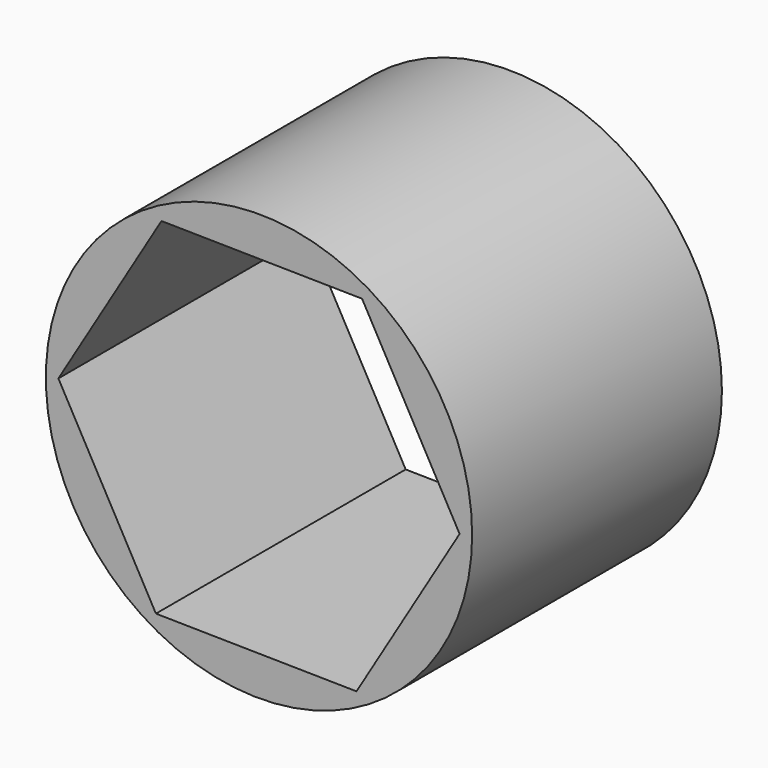
from build123d import *

# Parameters (mm, degrees)
F0_R     = 69.360533
F1_DEPTH = 101.6


with BuildPart() as f1:
    # F0 (on Front) → F1 (new body)
    with BuildSketch(Plane.XZ):
        Circle(F0_R)
        Polygon((-31.735938, 57.054307), (33.54251, 56.011282), (65.278448, -1.043025), (31.735938, -57.054307), (-33.54251, -56.011282), (-65.278448, 1.043025), align=None, mode=Mode.SUBTRACT)
    extrude(amount=-F1_DEPTH)


solid = f1.part
